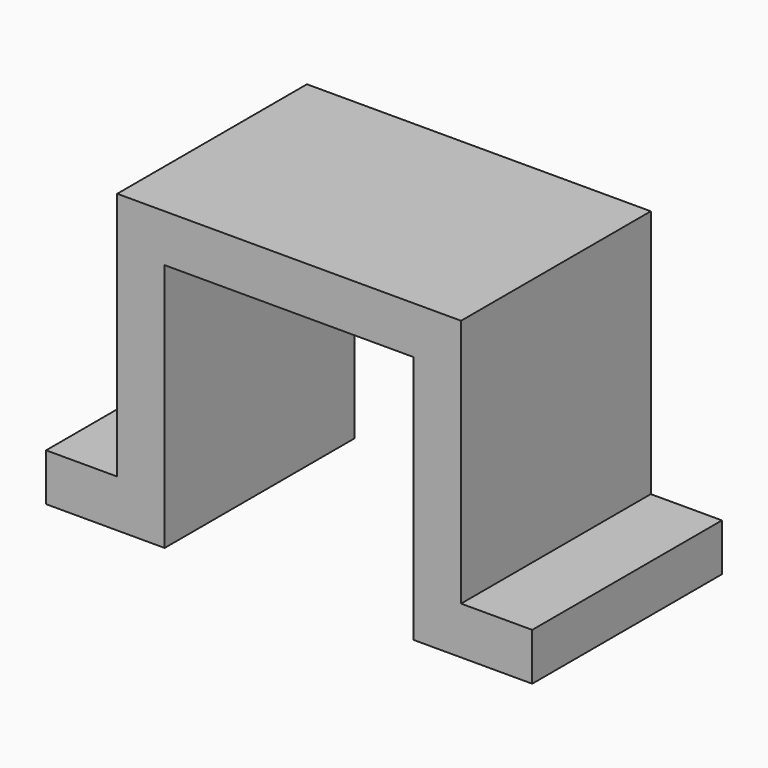
from build123d import *

# Parameters (mm, degrees)
F1_DEPTH = 20


with BuildPart() as f1:
    # F0 (on Front) → F1 (new body)
    with BuildSketch(Plane.XZ):
        Polygon((0, 4), (0, 21), (21, 21), (21, 4), (21, 0), (25, 0), (31, 0), (31, 4), (25, 4), (25, 25), (0, 25), (-4, 25), (-4, 4), (-10, 4), (-10, 0), (-4, 0), (0, 0), align=None)
    extrude(amount=F1_DEPTH)


solid = f1.part
